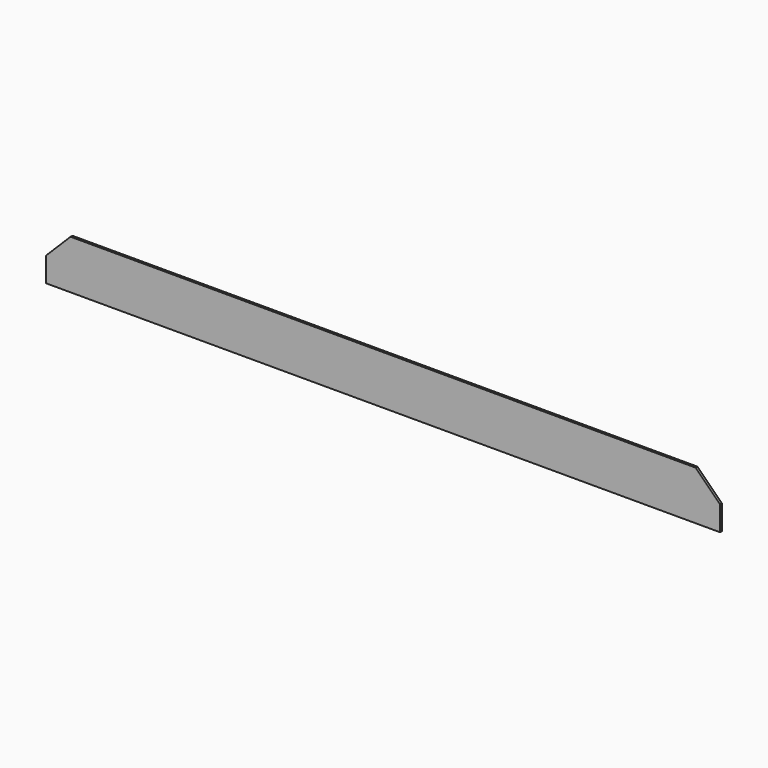
from build123d import *

# Parameters (mm, degrees)
F0_W     = 895
F0_H     = 3
F1_DEPTH = 65
F3_DEPTH = 3.001


with BuildPart() as f1:
    # F0 (on Top) → F1 (new body)
    with BuildSketch(Plane.XY):
        with Locations((447.5, 1.5)):
            Rectangle(F0_W, F0_H)
    extrude(amount=F1_DEPTH)

    # F2 (on face) → F3 (cut, through all)
    with BuildSketch(Plane.XZ):
        Polygon((895, 65), (862.5, 65), (895, 32.5), align=None)
        Polygon((0, 65), (0, 32.5), (32.5, 65), align=None)
    extrude(amount=-F3_DEPTH, mode=Mode.SUBTRACT)


solid = f1.part
